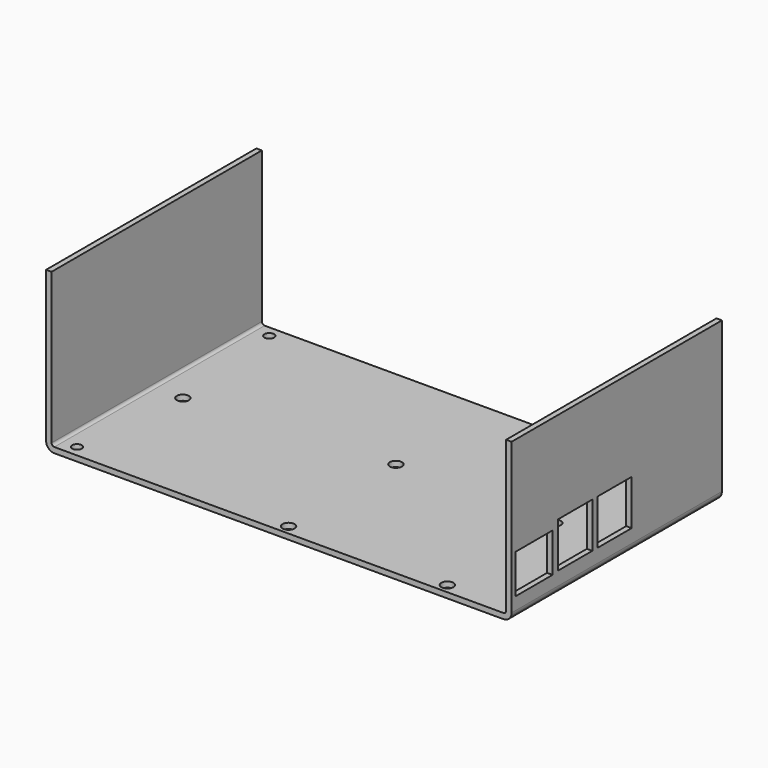
from build123d import *

# Parameters (mm, degrees)
PAD002_DEPTH    = 250
PAD003_DEPTH    = 150
SKETCH_W        = 170
SKETCH_H        = 100
PAD_DEPTH       = 60
FILLET_R        = 3
SKETCH001_W     = 17
SKETCH001_H     = 14.3
SKETCH001_W_2   = 15.6
SKETCH001_H_2   = 16.5
POCKET_DEPTH    = 45.251
SKETCH002_W     = 8.2
SKETCH002_H     = 4.6
POCKET001_DEPTH = 30.001
SKETCH006_W     = 165
SKETCH006_H     = 92
POCKET003_DEPTH = 500
SKETCH007_R     = 2.2
SKETCH007_R_2   = 1.75
POCKET004_DEPTH = 5


with BuildPart() as bottom_mask:
    # Sketch004 → Pad002 (new body, symmetric)
    with BuildSketch(Plane.XZ):
        with BuildLine():
            Line((-122.75, 60), (-122.75, 2.999996))
            ThreePointArc((-122.75, 2.999996), (-122.457105, 2.292892), (-121.75, 2))
            Line((-121.75, 2), (42.25, 2))
            ThreePointArc((42.25, 2), (42.957105, 2.292892), (43.25, 2.999996))
            Line((43.25, 2.999996), (43.25, 60))
            Line((43.25, 60), (-122.75, 60))
        make_face()
    extrude(amount=PAD002_DEPTH, both=True)

    # Sketch008 → Pad003 (join, symmetric)
    with BuildSketch(Plane.YZ):
        Polygon((-30, 60), (-30, 0), (-28, 0), (-28, 58), (68, 58), (68, 0), (70, 0), (70, 60), align=None)
    extrude(amount=PAD003_DEPTH, both=True)


with BuildPart() as bottom:
    # Sketch → Pad (new body)
    with BuildSketch(Plane.XY):
        with Locations((-39.75, 20)):
            Rectangle(SKETCH_W, SKETCH_H)
    extrude(amount=PAD_DEPTH)

    # Fillet
    fillet_edges = [bottom.edges().sort_by_distance(p)[0] for p in [
        (45.25, 20, 0),
        (-39.75, -30, 60),
        (-39.75, 70, 60),
        (-124.75, 20, 0),
    ]]
    fillet(fillet_edges, radius=FILLET_R)

    # Sketch001 → Pocket (cut, through all)
    with BuildSketch(Plane.YZ):
        with Locations((-17.8, 14.75)):
            Rectangle(SKETCH001_W, SKETCH001_H)
        with Locations((1.05, 16.2)):
            Rectangle(SKETCH001_W_2, SKETCH001_H_2)
        with Locations((19, 16.2)):
            Rectangle(SKETCH001_W_2, SKETCH001_H_2)
    extrude(amount=POCKET_DEPTH, mode=Mode.SUBTRACT)

    # Sketch002 → Pocket001 (cut, through all)
    with BuildSketch(Plane.XZ):
        with BuildLine():
            ThreePointArc((-34.67, 11.2), (-35.73066, 10.76066), (-36.17, 9.7))
            Line((-36.17, 8.74), (-36.17, 9.7))
            ThreePointArc((-36.17, 8.74), (-35.73066, 7.67934), (-34.67, 7.24))
            Line((-27.93, 7.24), (-34.67, 7.24))
            ThreePointArc((-27.93, 7.24), (-26.86934, 7.67934), (-26.43, 8.74))
            Line((-26.43, 9.7), (-26.43, 8.74))
            ThreePointArc((-26.43, 9.7), (-26.86934, 10.76066), (-27.93, 11.2))
            Line((-34.67, 11.2), (-27.93, 11.2))
        make_face()
        with Locations((-16.704733, 9.1)):
            Rectangle(SKETCH002_W, SKETCH002_H)
        with Locations((-3.304733, 9.1)):
            Rectangle(SKETCH002_W, SKETCH002_H)
    extrude(amount=POCKET001_DEPTH, mode=Mode.SUBTRACT)

    # Sketch006 → Pocket003 (cut)
    with BuildSketch(Plane.XY.offset(30)):
        with Locations((-39.75, 20)):
            Rectangle(SKETCH006_W, SKETCH006_H)
    extrude(amount=POCKET003_DEPTH, mode=Mode.SUBTRACT)

    # Sketch007 → Pocket004 (cut)
    with BuildSketch(Plane.XY):
        with Locations((-39, 24.5)):
            Circle(SKETCH007_R)
        with Locations((19, 24.5)):
            Circle(SKETCH007_R)
        with Locations((-39, -24.5)):
            Circle(SKETCH007_R)
        with Locations((19, -24.5)):
            Circle(SKETCH007_R)
        with Locations((-112, 18.5)):
            Circle(SKETCH007_R)
        with Locations((-116.75, -23.9)):
            Circle(SKETCH007_R_2)
        with Locations((-116.75, 63.9)):
            Circle(SKETCH007_R_2)
        with Locations((37.25, 63.9)):
            Circle(SKETCH007_R_2)
    extrude(amount=POCKET004_DEPTH, mode=Mode.SUBTRACT)

    # Cut001: cut Bottom Mask
    add(bottom_mask.part, mode=Mode.SUBTRACT)


solid = bottom.part
